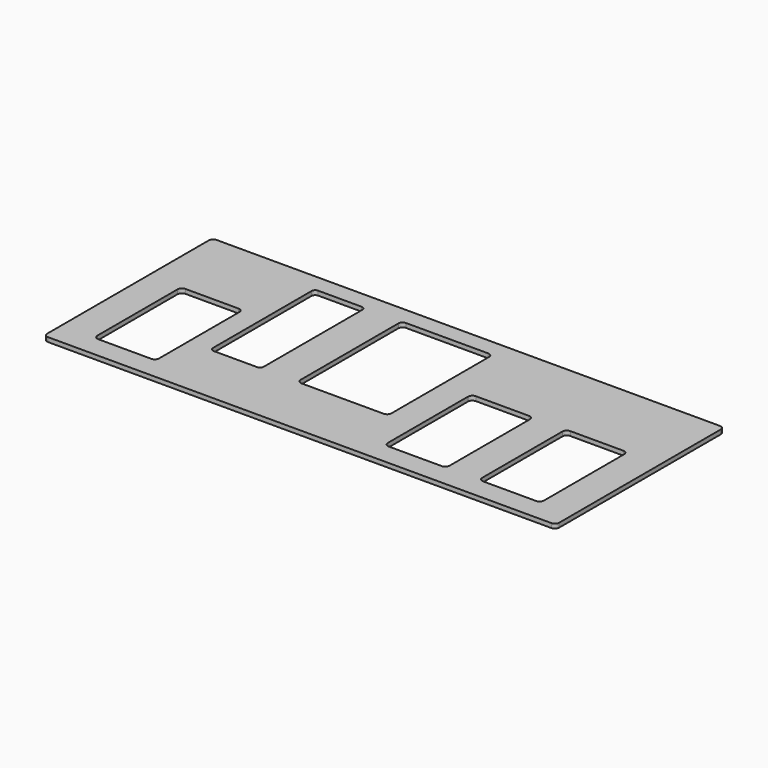
from build123d import *

# Parameters (mm, degrees)
F1_DEPTH = 6


with BuildPart() as f1:
    # F0 (on Top) → F1 (new body)
    with BuildSketch(Plane.XY):
        with BuildLine():
            Line((0, 284), (0, 6))
            ThreePointArc((0, 6), (1.757359, 1.757359), (6, 0))
            Line((6, 0), (699, 0))
            ThreePointArc((699, 0), (703.242641, 1.757359), (705, 6))
            Line((705, 6), (705, 284))
            ThreePointArc((705, 284), (703.242641, 288.242641), (699, 290))
            Line((699, 290), (6, 290))
            ThreePointArc((6, 290), (1.757359, 288.242641), (0, 284))
        make_face()
        with BuildLine():
            Line((130, 101.494274), (130, 36))
            ThreePointArc((130, 36), (128.242641, 31.757359), (124, 30))
            Line((124, 30), (51, 30))
            ThreePointArc((51, 30), (46.757359, 31.757359), (45, 36))
            Line((45, 36), (45, 174))
            ThreePointArc((45, 174), (46.757359, 178.242641), (51, 180))
            Line((51, 180), (124, 180))
            ThreePointArc((124, 180), (128.242641, 178.242641), (130, 174))
            Line((130, 174), (130, 101.494274))
        make_face(mode=Mode.SUBTRACT)
        with BuildLine():
            ThreePointArc((445, 174), (446.757359, 178.242641), (451, 180))
            Line((451, 180), (524, 180))
            ThreePointArc((524, 180), (528.242641, 178.242641), (530, 174))
            Line((530, 174), (530, 36))
            ThreePointArc((530, 36), (528.242641, 31.757359), (524, 30))
            Line((524, 30), (451, 30))
            ThreePointArc((451, 30), (446.757359, 31.757359), (445, 36))
            Line((445, 36), (445, 174))
        make_face(mode=Mode.SUBTRACT)
        with BuildLine():
            ThreePointArc((575, 174), (576.757359, 178.242641), (581, 180))
            Line((581, 180), (654, 180))
            ThreePointArc((654, 180), (658.242641, 178.242641), (660, 174))
            Line((660, 174), (660, 36))
            ThreePointArc((660, 36), (658.242641, 31.757359), (654, 30))
            Line((654, 30), (581, 30))
            ThreePointArc((581, 30), (576.757359, 31.757359), (575, 36))
            Line((575, 36), (575, 174))
        make_face(mode=Mode.SUBTRACT)
        with BuildLine():
            ThreePointArc((160, 261), (161.464466, 264.535534), (165, 266))
            Line((165, 266), (225, 266))
            ThreePointArc((225, 266), (228.535534, 264.535534), (230, 261))
            Line((230, 261), (230, 91))
            ThreePointArc((230, 91), (228.535534, 87.464466), (225, 86))
            Line((225, 86), (165, 86))
            ThreePointArc((165, 86), (161.464466, 87.464466), (160, 91))
            Line((160, 91), (160, 261))
        make_face(mode=Mode.SUBTRACT)
        with BuildLine():
            ThreePointArc((280, 260.200967), (281.757359, 264.443608), (286, 266.200967))
            Line((286, 266.200967), (399, 266.200967))
            ThreePointArc((399, 266.200967), (403.242641, 264.443608), (405, 260.200967))
            Line((405, 260.200967), (405, 92.200967))
            ThreePointArc((405, 92.200967), (403.242641, 87.958327), (399, 86.200967))
            Line((399, 86.200967), (286, 86.200967))
            ThreePointArc((286, 86.200967), (281.757359, 87.958327), (280, 92.200967))
            Line((280, 92.200967), (280, 260.200967))
        make_face(mode=Mode.SUBTRACT)
    extrude(amount=F1_DEPTH)


solid = f1.part
